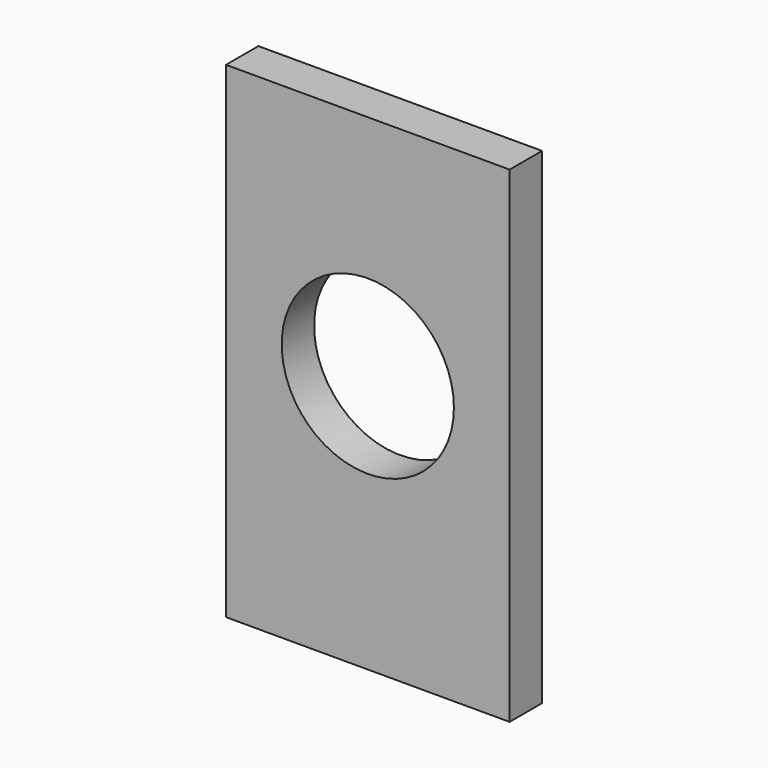
from build123d import *

# Parameters (mm, degrees)
CYLINDER881_R     = 8.5
CYLINDER881_DEPTH = 10
BOX425_W          = 28
BOX425_H          = 4
BOX425_DEPTH      = 48


with BuildPart() as obj1:
    # Cylinder881 → Cylinder881 (new body)
    with BuildSketch(Plane(origin=(44, 6, 51.5), x_dir=(1, 0, 0), z_dir=(0, -1, 0))):
        Circle(CYLINDER881_R)
    extrude(amount=CYLINDER881_DEPTH)


with BuildPart() as cut023:
    # Box425 → Box425 (new body)
    with BuildSketch(Plane(origin=(30, 0, 26), x_dir=(1, 0, 0), z_dir=(0, 0, 1))):
        with Locations((14, 2)):
            Rectangle(BOX425_W, BOX425_H)
    extrude(amount=BOX425_DEPTH)

    # Cut023: cut obj1
    add(obj1.part, mode=Mode.SUBTRACT)


solid = cut023.part
